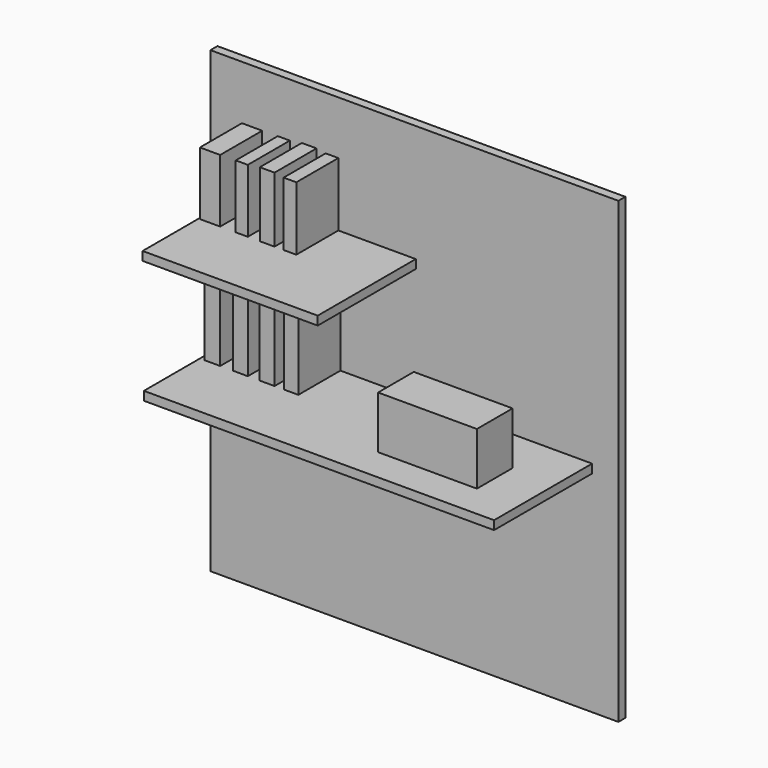
from build123d import *

# Parameters (mm, degrees)
F0_W     = 2330
F0_H     = 2620
F1_DEPTH = 50
F2_W     = 2000
F2_H     = 50
F3_DEPTH = 700
F4_W     = 1000
F4_H     = 50
F5_DEPTH = 700
F6_W     = 90.3320163488
F6_H     = 399.3376493454
F6_W_2   = 85.6856405735
F6_H_2   = 406.1774015427
F6_W_3   = 86.0437750816
F6_H_3   = 416.7296886444
F6_W_4   = 81.160068512
F6_H_4   = 408.6964130402
F6_W_5   = 115.8454191685
F6_H_5   = 360.1629257202
F6_W_6   = 69.016456604
F6_H_6   = 361.758184433
F6_W_7   = 84.0144753456
F6_H_7   = 372.1844673157
F6_W_8   = 72.4673271179
F6_H_8   = 364.1092300415
F7_DEPTH = 300
F8_W     = 564.2251968384
F8_H     = 254.868388176
F9_DEPTH = 300


with BuildPart() as f1:
    # F0 (on Front) → F1 (new body)
    with BuildSketch(Plane.XZ):
        with Locations((1165, 1310)):
            Rectangle(F0_W, F0_H)
    extrude(amount=F1_DEPTH)

    # F2 (on face) → F3 (join)
    with BuildSketch(Plane.XZ.offset(50)):
        with Locations((1180, 1225)):
            Rectangle(F2_W, F2_H)
    extrude(amount=F3_DEPTH)

    # F4 (on face) → F5 (join)
    with BuildSketch(Plane.XZ.offset(50)):
        with Locations((672.8687286377, 1925.9296894073)):
            Rectangle(F4_W, F4_H)
    extrude(amount=F5_DEPTH)

    # F6 (on face) → F7 (join)
    with BuildSketch(Plane.XZ.offset(50)):
        with Locations((250.6794109941, 1449.6688246727)):
            Rectangle(F6_W, F6_H)
        with Locations((410.8895212412, 1453.0887007713)):
            Rectangle(F6_W_2, F6_H_2)
        with Locations((563.178807497, 1458.3648443222)):
            Rectangle(F6_W_3, F6_H_3)
        with Locations((701.6470432281, 1454.3482065201)):
            Rectangle(F6_W_4, F6_H_4)
        with Locations((237.9227095842, 2131.0111522675)):
            Rectangle(F6_W_5, F6_H_5)
        with Locations((419.2352294922, 2131.8087816238)):
            Rectangle(F6_W_6, F6_H_6)
        with Locations((564.193457365, 2137.0219230652)):
            Rectangle(F6_W_7, F6_H_7)
        with Locations((694.4462656975, 2132.9843044281)):
            Rectangle(F6_W_8, F6_H_8)
    extrude(amount=F7_DEPTH)

    # F8 (on face) → F9 (join)
    with BuildSketch(Plane.XY.offset(1250)):
        with Locations((1647.7845907211, -432.5073957443)):
            Rectangle(F8_W, F8_H)
    extrude(amount=F9_DEPTH)


solid = f1.part
